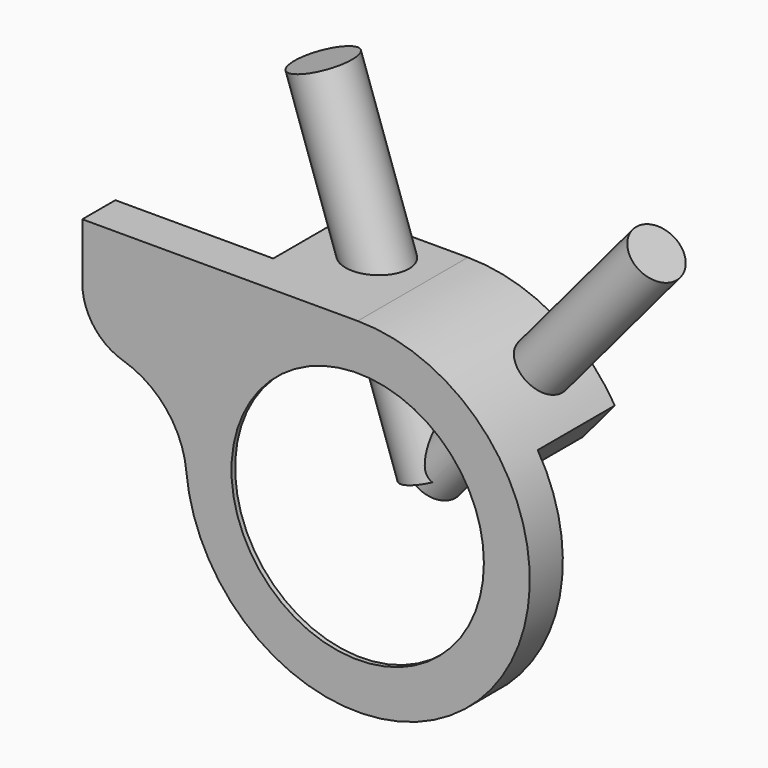
from build123d import *

# Parameters (mm, degrees)
SKETCH_R                    = 55
PAD_DEPTH                   = 40
PAD_DEPTH_BACK              = 20
POCKET_DEPTH                = 42
POCKET001_DEPTH             = 16
SKETCH004_R                 = 67.5
SKETCH004_R_2               = 58
POCKET002_DEPTH             = 0.7
POCKET003_DEPTH             = 0.7
SKETCH006_R                 = 1.45
POCKET004_DEPTH             = 35
SKETCH007_R                 = 2
POCKET005_DEPTH             = 20
CYLINDER001_R               = 13.3
CYLINDER001_DEPTH           = 150
CYLINDER001_PLACEMENT_ANGLE = 341
CYLINDER_R                  = 11.5
CYLINDER_DEPTH              = 150
CYLINDER_PLACEMENT_ANGLE    = 40


with BuildPart() as body:
    # Sketch → Pad (new body, two sides)
    with BuildSketch(Plane.XZ) as pad_sk:
        with BuildLine():
            Line((-120, 75), (0, 75))
            ThreePointArc((-74.66808, -7.048245), (55.468993, -50.479608), (0, 75))
            ThreePointArc((-74.66808, -7.048245), (-83.30852, 13.959176), (-102.203647, 26.566441))
            ThreePointArc((-120, 50.506104), (-115.063539, 35.591198), (-102.203647, 26.566441))
            Line((-120, 75), (-120, 50.506104))
        make_face()
        Circle(SKETCH_R, mode=Mode.SUBTRACT)
    extrude(amount=PAD_DEPTH)
    extrude(pad_sk.sketch, amount=-PAD_DEPTH_BACK)

    # Sketch001 (on Face7 of Pad) → Pocket (cut)
    with BuildSketch(Plane(origin=(0, 20, 0), x_dir=(1, 0, 0), z_dir=(0, 1, 0))):
        with BuildLine():
            Line((46.551104, -18.140074), (74.636799, -51.611301))
            ThreePointArc((74.636799, -51.611301), (27.033088, 86.623267), (-90.743475, 0))
            Line((-211.758942, -108.831918), (-90.743475, 0))
            Line((-62.856731, -108.831918), (-211.758942, -108.831918))
            Line((-42.167317, -48.745498), (-62.856731, -108.831918))
            Line((9.780971, -48.993879), (-42.167317, -48.745498))
            Line((46.551104, -18.140074), (9.780971, -48.993879))
        make_face()
    extrude(amount=-POCKET_DEPTH, mode=Mode.SUBTRACT)

    # Sketch003 (on Face2 of Pocket) → Pocket001 (cut)
    with BuildSketch(Plane(origin=(0, -22, 0), x_dir=(1, 0, 0), z_dir=(0, 1, 0))):
        with BuildLine():
            ThreePointArc((0, -70), (66.404243, -22.146705), (42.018147, 55.986385))
            Line((42.018147, 55.986385), (62.226624, 86.16832))
            Line((62.226624, 86.16832), (-170.809082, 86.16832))
            Line((-170.809082, 86.16832), (-170.809082, -70))
            Line((-170.809082, -70), (0, -70))
        make_face()
    extrude(amount=-POCKET001_DEPTH, mode=Mode.SUBTRACT)

    # Sketch004 → Pocket002 (cut)
    with BuildSketch(Plane(origin=(0, -38, 0), x_dir=(-1, 0, 0), z_dir=(0, 1, 0))):
        Circle(SKETCH004_R)
        Circle(SKETCH004_R_2, mode=Mode.SUBTRACT)
    extrude(amount=-POCKET002_DEPTH, mode=Mode.SUBTRACT)

    # Sketch005 (on Face14 of Pocket002) → Pocket003 (cut)
    with BuildSketch(Plane(origin=(0, -38, 0), x_dir=(1, 0, 0), z_dir=(0, 1, 0))):
        Polygon((-1.938341, -67.163612), (-30.996857, -50.103622), (-171.92012, -37.367233), (-166.878586, -67.163612), align=None)
        Polygon((33.504612, 56.368855), (-47.315361, 108.119194), (-132.927017, 66.910591), align=None)
    extrude(amount=-POCKET003_DEPTH, mode=Mode.SUBTRACT)

    # Sketch006 (on Face4 of Pocket003) → Pocket004 (cut)
    with BuildSketch(Plane(origin=(0, 20, 0), x_dir=(1, 0, 0), z_dir=(0, 1, 0))):
        with Locations((-38.002514, -53.753925)):
            Circle(SKETCH006_R)
        with Locations((-43.871658, -69.918114)):
            Circle(SKETCH006_R)
        with Locations((-1.248232, -65.011124)):
            Circle(SKETCH006_R)
        with Locations((26.37031, -58.932541)):
            Circle(SKETCH006_R)
        with Locations((50.759274, -31.119787)):
            Circle(SKETCH006_R)
        with Locations((57.686783, -39.586739)):
            Circle(SKETCH006_R)
    extrude(amount=-POCKET004_DEPTH, mode=Mode.SUBTRACT)

    # Sketch007 (on Face4 of Pocket004) → Pocket005 (cut)
    with BuildSketch(Plane(origin=(0, 20, 0), x_dir=(1, 0, 0), z_dir=(0, 1, 0))):
        with Locations((-38.002514, -53.753925)):
            Circle(SKETCH007_R)
        with Locations((-43.871658, -69.918114)):
            Circle(SKETCH007_R)
        with Locations((-1.248232, -65.011124)):
            Circle(SKETCH007_R)
        with Locations((26.37031, -58.932541)):
            Circle(SKETCH007_R)
        with Locations((50.759274, -31.119787)):
            Circle(SKETCH007_R)
        with Locations((57.686783, -39.586739)):
            Circle(SKETCH007_R)
    extrude(amount=-POCKET005_DEPTH, mode=Mode.SUBTRACT)


with BuildPart() as st:
    # Cylinder001 → Cylinder001 (new body)
    with BuildSketch(Plane.XY):
        Circle(CYLINDER001_R)
    extrude(amount=CYLINDER001_DEPTH)


with BuildPart() as st_1:
    # Cylinder001 placement: moved
    add(st.part.moved(Location((1, 1, 1))).rotate(Axis((1, 1, 1), (0, 1, 0)), CYLINDER001_PLACEMENT_ANGLE))


with BuildPart() as fusion:
    # Cylinder → Cylinder (new body)
    with BuildSketch(Plane.XY):
        Circle(CYLINDER_R)
    extrude(amount=CYLINDER_DEPTH)


with BuildPart() as fusion_1:
    # Cylinder placement: moved
    add(fusion.part.moved(Location((1, 1, 1))).rotate(Axis((1, 1, 1), (0, 1, 0)), CYLINDER_PLACEMENT_ANGLE))

    # Fusion: union ST
    add(st_1.part)


solid = Compound([body.part, fusion_1.part])
